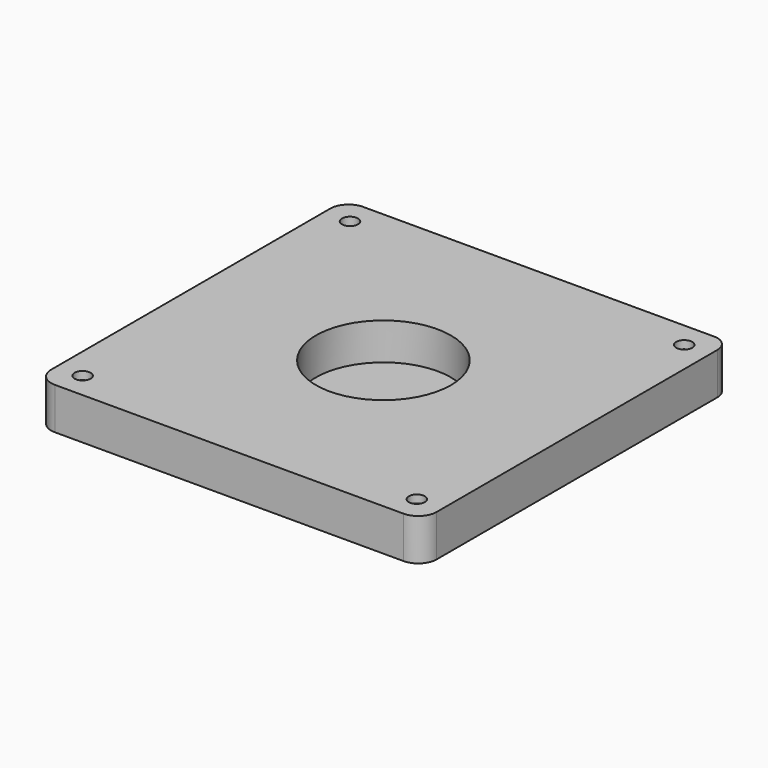
from build123d import *

# Parameters (mm, degrees)
F0_R     = 4.9999993943
F0_R_2   = 4.9999985195
F0_R_3   = 5
F0_R_4   = 21
F1_DEPTH = 13
F2_DEPTH = 1.5
F3_R     = 4.9999985195
F3_R_2   = 4.9999993943
F3_R_3   = 5
F4_DEPTH = 3.5
F0_R_5   = 2.5
F5_DEPTH = 27.6
F6_SIZE  = 1


with BuildPart() as f1:
    # F0 (on Top) → F1 (new body)
    with BuildSketch(Plane.XY):
        with BuildLine():
            Line((55, 60), (-54.2957481862, 60))
            ThreePointArc((-54.2957481862, 60), (-58.3292633253, 58.3292633253), (-60, 54.2957481862))
            Line((-60, 54.2957481862), (-60, -54.2957481862))
            ThreePointArc((-60, -54.2957481862), (-58.3292633253, -58.3292633253), (-54.2957481862, -60))
            Line((-54.2957481862, -60), (54.2957481862, -60))
            ThreePointArc((54.2957481862, -60), (58.3292633253, -58.3292633253), (60, -54.2957481862))
            Line((60, -54.2957481862), (60, 55))
            ThreePointArc((60, 55), (58.5355339059, 58.5355339059), (55, 60))
        make_face()
        with Locations((-52.03, -52.03)):
            Circle(F0_R, mode=Mode.SUBTRACT)
        with Locations((52.03, -52.03)):
            Circle(F0_R_2, mode=Mode.SUBTRACT)
        with Locations((-52.03, 52.03)):
            Circle(F0_R_3, mode=Mode.SUBTRACT)
        Circle(F0_R_4, mode=Mode.SUBTRACT)
        with Locations((52.03, 52.03)):
            Circle(F0_R_3, mode=Mode.SUBTRACT)
    extrude(amount=F1_DEPTH)

    # F0 (on Top) → F2 (join)
    with BuildSketch(Plane.XY):
        Circle(F0_R_4)
    extrude(amount=F2_DEPTH)

    # F3 (on face) → F4 (join)
    with BuildSketch(Plane.XY.offset(13)):
        with Locations((52.03, -52.03)):
            Circle(F3_R)
        with Locations((-52.03, -52.03)):
            Circle(F3_R_2)
        with Locations((-52.03, 52.03)):
            Circle(F3_R_3)
        with Locations((52.03, 52.03)):
            Circle(F3_R_3)
    extrude(amount=-F4_DEPTH)

    # F0 (on Top) → F5 (cut)
    with BuildSketch(Plane.XY):
        with Locations((-52.03, -52.03)):
            Circle(F0_R_5)
        with Locations((52.03, -52.03)):
            Circle(F0_R_5)
        with Locations((52.03, 52.03)):
            Circle(F0_R_5)
        with Locations((-52.03, 52.03)):
            Circle(F0_R_5)
    extrude(amount=F5_DEPTH, mode=Mode.SUBTRACT)

    # F6
    f6_edges = [f1.edges().sort_by_distance(p)[0] for p in [
        (49.53, 52.03, 9.5),
        (-54.53, 52.03, 9.5),
        (49.53, -52.03, 9.5),
        (-54.53, -52.03, 9.5),
    ]]
    chamfer(f6_edges, length=F6_SIZE)


solid = f1.part
